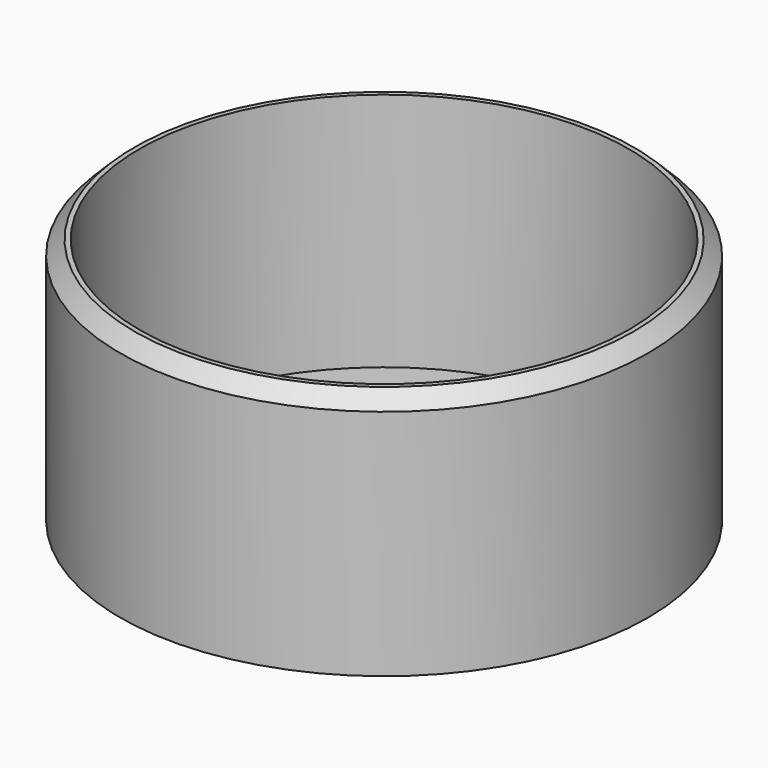
from build123d import *

# Parameters (mm, degrees)
SKETCH_R      = 11
PAD_DEPTH     = 0.3
SKETCH001_R   = 11
SKETCH001_R_2 = 10.2
PAD001_DEPTH  = 10
CHAMFER_SIZE  = 0.6


with BuildPart() as part:
    # Sketch → Pad (new body)
    with BuildSketch(Plane.XY):
        Circle(SKETCH_R)
    extrude(amount=PAD_DEPTH)

    # Sketch001 (on Face3 of Pad) → Pad001 (join)
    with BuildSketch(Plane.XY.offset(0.3)):
        Circle(SKETCH001_R)
        Circle(SKETCH001_R_2, mode=Mode.SUBTRACT)
    extrude(amount=PAD001_DEPTH)

    # Chamfer
    chamfer_edges = [part.edges().sort_by_distance(p)[0] for p in [
        (-11, 0, 10.3),
    ]]
    chamfer(chamfer_edges, length=CHAMFER_SIZE)


solid = part.part
